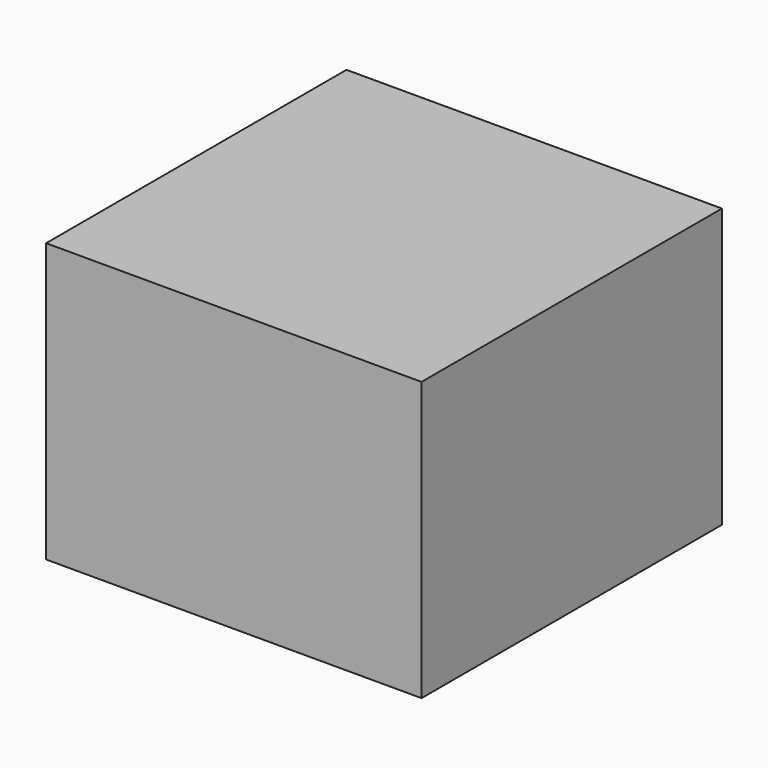
from build123d import *

# Parameters (mm, degrees)
F0_W     = 101.6
F0_H     = 101.6
F1_DEPTH = 76.2
F2_W     = 76.2
F2_H     = 76.2
F3_DEPTH = 63.5
F4_W     = 109.6
F4_H     = 109.6
F5_DEPTH = 81.28


with BuildPart() as f1:
    # F0 (on Top) → F1 (new body)
    with BuildSketch(Plane.XY):
        with Locations((50.8, 50.8)):
            Rectangle(F0_W, F0_H)
    extrude(amount=F1_DEPTH)

    # F2 (on face) → F3 (cut)
    with BuildSketch(Plane.XY.offset(76.2)):
        with Locations((50.8, 50.8)):
            Rectangle(F2_W, F2_H)
    extrude(amount=-F3_DEPTH, mode=Mode.SUBTRACT)


with BuildPart() as f5:
    # F4 (on Top) → F5 (new body)
    with BuildSketch(Plane.XY):
        with Locations((50.8, 50.8)):
            Rectangle(F4_W, F4_H)
    extrude(amount=F5_DEPTH)

    # F6: cut F1
    add(f1.part, mode=Mode.SUBTRACT)


solid = f5.part
